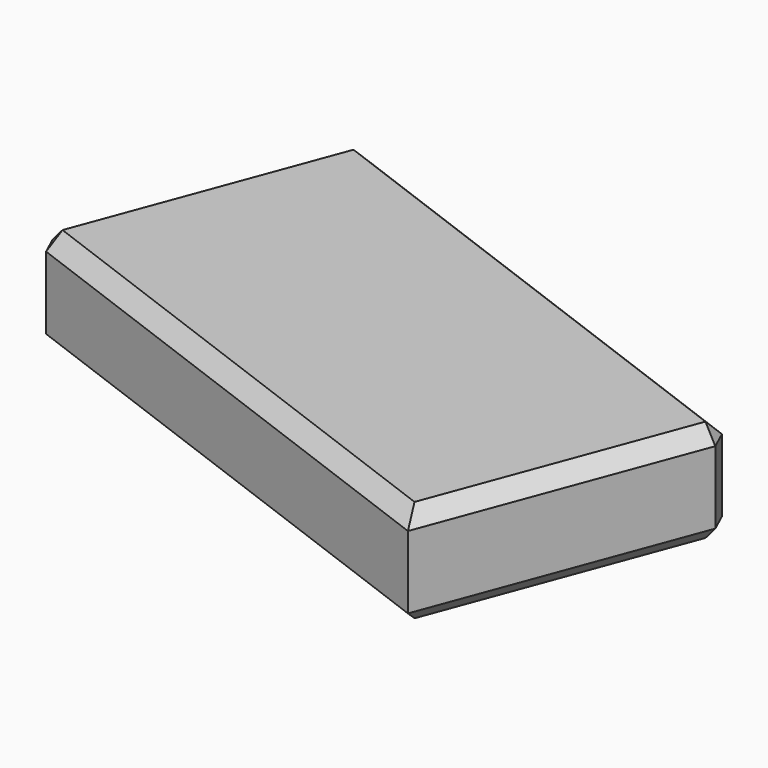
from build123d import *

# Parameters (mm, degrees)
F1_DEPTH = 34.798
F2_SIZE  = 5.08
F3_SIZE  = 5.08


with BuildPart() as f1:
    # F0 (on Top) → F1 (new body)
    with BuildSketch(Plane.XY):
        Polygon((-110.830761, -76.057732), (69.183203, -143.250428), (104.182492, -49.48487), (-75.831473, 17.707827), align=None)
    extrude(amount=F1_DEPTH)

    # F2
    f2_edges = [f1.edges().sort_by_distance(p)[0] for p in [
        (14.17551, -15.888522, 34.798),
        (-75.831473, 17.707827, 17.399),
        (-93.331117, -29.174953, 34.798),
        (86.682848, -96.367649, 34.798),
        (-20.823779, -109.65408, 34.798),
        (104.182492, -49.48487, 17.399),
        (14.17551, -15.888522, 0),
        (-93.331117, -29.174953, 0),
        (-110.830761, -76.057732, 17.399),
        (86.682848, -96.367649, 0),
    ]]
    chamfer(f2_edges, length=F2_SIZE)

    # F3
    f3_edges = [f1.edges().sort_by_distance(p)[0] for p in [
        (-20.823779, -109.65408, 0),
    ]]
    chamfer(f3_edges, length=F3_SIZE)


solid = f1.part
